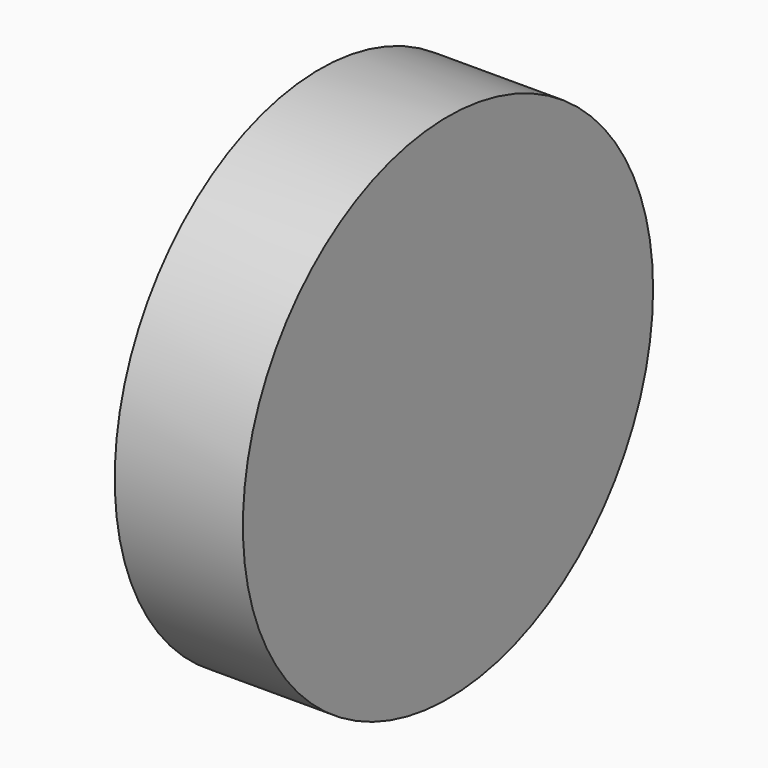
from build123d import *

# Parameters (mm, degrees)
F0_R     = 152.4
F0_R_2   = 107.95
F1_DEPTH = 76.2
F2_DEPTH = 25.4


with BuildPart() as f1:
    # F0 (on Right) → F1 (new body)
    with BuildSketch(Plane.YZ):
        with Locations((-39.102633, -9.023684)):
            Circle(F0_R)
        with Locations((-39.102633, -9.023684)):
            Circle(F0_R_2, mode=Mode.SUBTRACT)
    extrude(amount=-F1_DEPTH)

    # F0 (on Right) → F2 (join)
    with BuildSketch(Plane.YZ):
        with Locations((-39.102633, -9.023684)):
            Circle(F0_R_2)
    extrude(amount=-F2_DEPTH)


solid = f1.part
